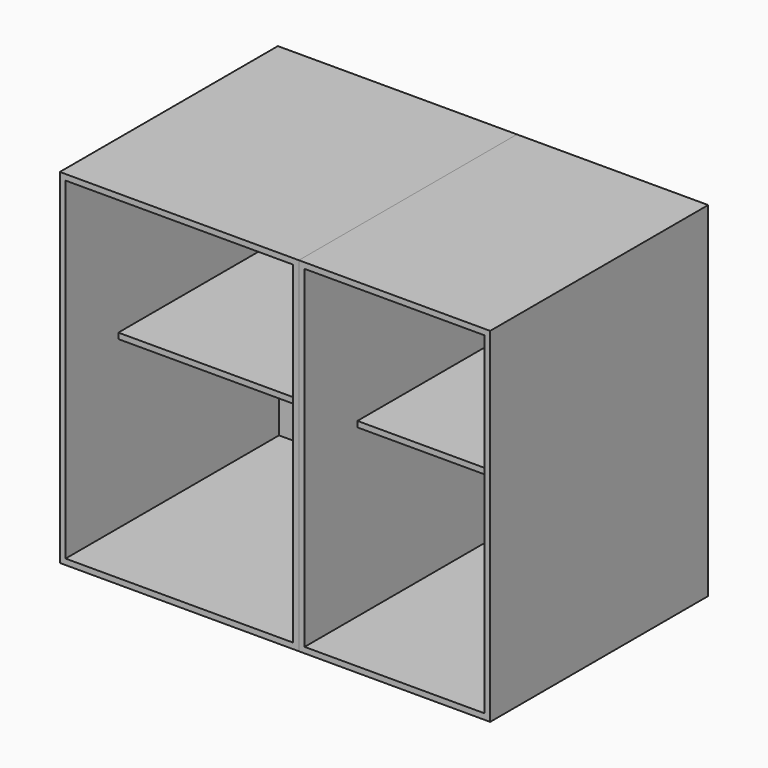
from build123d import *

# Parameters (mm, degrees)
F0_W     = 500
F0_H     = 570
F1_DEPTH = 720
F2_T     = -12
F4_W     = 476
F4_H     = 420
F5_DEPTH = 12
F6_DEPTH = 400
F7_T     = -12
F8_W     = 376
F8_H     = 420
F9_DEPTH = 12


with BuildPart() as f1:
    # F0 (on Top) → F1 (new body)
    with BuildSketch(Plane.XY):
        with Locations((250, 285)):
            Rectangle(F0_W, F0_H)
    extrude(amount=F1_DEPTH)

    # F2
    f2_openings = [f1.faces().sort_by_distance(p)[0] for p in [
        (250, 0, 360),
    ]]
    offset(amount=F2_T, openings=f2_openings)

    # F4 (on offset) → F5 (join)
    with BuildSketch(Plane.XY.offset(360)):
        with Locations((250, 348)):
            Rectangle(F4_W, F4_H)
    extrude(amount=F5_DEPTH)


with BuildPart() as f6:
    # F6 (new): a face of the model
    f6_faces = [f1.part.faces().sort_by_distance(p)[0] for p in [
        (500, 285, 360),
    ]]
    extrude(f6_faces, amount=F6_DEPTH)

    # F7
    f7_openings = [f6.faces().sort_by_distance(p)[0] for p in [
        (700, 0, 360),
    ]]
    offset(amount=F7_T, openings=f7_openings)

    # F8 (on offset) → F9 (join, through all)
    with BuildSketch(Plane.XY.offset(360)):
        with Locations((700, 348)):
            Rectangle(F8_W, F8_H)
    extrude(amount=F9_DEPTH)


solid = Compound([f1.part, f6.part])
